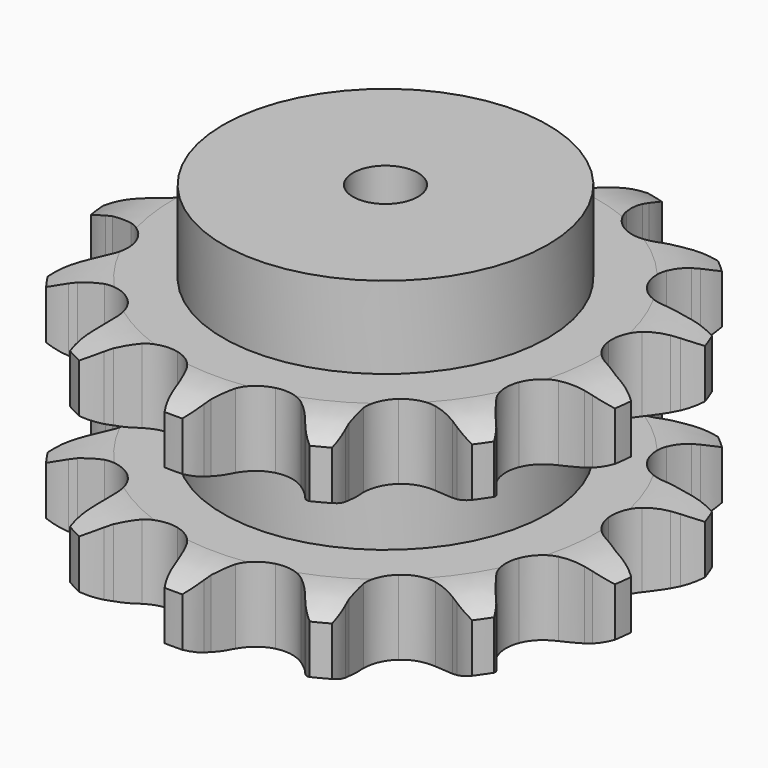
from build123d import *

# Parameters (mm, degrees)
PAD_DEPTH         = 88.4
SKETCH001_R       = 62.5
PAD001_DEPTH      = 120
SKETCH002_R       = 12.5
POCKET_DEPTH      = 0.001
POCKET_DEPTH_BACK = 120.001


with BuildPart() as part:
    # Sprocket → Pad (new body)
    with BuildSketch(Plane.XY):
        with BuildLine():
            ThreePointArc((-25.501981, 103.465603), (-20.4755, 99.243522), (-16.810526, 93.797474))
            Line((-16.810526, 93.797474), (-15.545747, 91.195433))
            ThreePointArc((-15.545747, 91.195433), (-13.413707, 87.403343), (-10.844837, 83.892438))
            ThreePointArc((-10.844837, 83.892438), (-5.992389, 80.130059), (0, 78.791023))
            ThreePointArc((0, 78.791023), (5.992389, 80.130059), (10.844837, 83.892438))
            ThreePointArc((10.844837, 83.892438), (13.413707, 87.403343), (15.545747, 91.195433))
            Line((15.545747, 91.195433), (16.810526, 93.797474))
            ThreePointArc((16.810526, 93.797474), (20.4755, 99.243522), (25.501981, 103.465603))
            ThreePointArc((25.501981, 103.465603), (27.990609, 97.391214), (28.704878, 90.865779))
            Line((28.704878, 90.865779), (28.615555, 87.974015))
            ThreePointArc((28.615555, 87.974015), (28.741111, 83.625477), (29.384134, 79.322912))
            ThreePointArc((29.384134, 79.322912), (31.932298, 73.736445), (36.616014, 69.765986))
            ThreePointArc((36.616014, 69.765986), (42.544292, 68.166841), (48.589386, 69.243218))
            Line((48.589386, 69.243218), (56.145707, 73.525077))
            ThreePointArc((56.145707, 73.525077), (57.29323, 74.406318), (58.474841, 75.241297))
            ThreePointArc((58.474841, 75.241297), (64.250919, 78.360335), (70.663746, 79.76288))
            ThreePointArc((70.663746, 79.76288), (70.044407, 73.227752), (67.64434, 67.11783))
            Line((67.64434, 67.11783), (66.221379, 64.59881))
            ThreePointArc((66.221379, 64.59881), (64.311687, 60.690022), (62.881553, 56.581462))
            ThreePointArc((62.881553, 56.581462), (62.54168, 50.450701), (64.843741, 44.758403))
            ThreePointArc((64.843741, 44.758403), (69.34981, 40.587422), (75.202692, 38.731211))
            Line((75.202692, 38.731211), (83.883361, 39.011011))
            ThreePointArc((83.883361, 39.011011), (85.308976, 39.258031), (86.743275, 39.448247))
            ThreePointArc((86.743275, 39.448247), (93.307227, 39.525739), (99.637298, 37.787443))
            ThreePointArc((99.637298, 37.787443), (96.051876, 32.288696), (91.0873, 27.993994))
            Line((91.0873, 27.993994), (88.656683, 26.424796))
            ThreePointArc((88.656683, 26.424796), (85.14923, 23.851215), (81.973567, 20.877882))
            ThreePointArc((81.973567, 20.877882), (78.823517, 15.607309), (78.216548, 9.497208))
            ThreePointArc((78.216548, 9.497208), (80.268123, 3.709913), (84.587968, -0.65365))
            Line((84.587968, -0.65365), (92.404348, -4.440007))
            ThreePointArc((92.404348, -4.440007), (93.781463, -4.883798), (95.13987, -5.381922))
            ThreePointArc((95.13987, -5.381922), (100.987973, -8.363726), (105.785146, -12.844642))
            ThreePointArc((105.785146, -12.844642), (100.055017, -16.047312), (93.663256, -17.542928))
            Line((93.663256, -17.542928), (90.781809, -17.80282))
            ThreePointArc((90.781809, -17.80282), (86.480111, -18.451618), (82.286424, -19.60857))
            ThreePointArc((82.286424, -19.60857), (77.047837, -22.811529), (73.670886, -27.939682))
            ThreePointArc((73.670886, -27.939682), (72.797976, -34.017492), (74.59516, -39.888767))
            Line((74.59516, -39.888767), (79.756613, -46.873873))
            ThreePointArc((79.756613, -46.873873), (80.769748, -47.906807), (81.741067, -48.979157))
            ThreePointArc((81.741067, -48.979157), (85.533592, -54.337163), (87.698892, -60.534175))
            ThreePointArc((87.698892, -60.534175), (81.13676, -60.707074), (74.782089, -59.060977))
            Line((74.782089, -59.060977), (72.109917, -57.952024))
            ThreePointArc((72.109917, -57.952024), (67.999441, -56.527408), (63.748453, -55.602934))
            ThreePointArc((63.748453, -55.602934), (57.621425, -56.004521), (52.248113, -58.975928))
            ThreePointArc((52.248113, -58.975928), (48.65069, -63.951899), (47.513499, -69.985849))
            Line((47.513499, -69.985849), (48.837599, -78.569499))
            ThreePointArc((48.837599, -78.569499), (49.254656, -79.954945), (49.616371, -81.355858))
            ThreePointArc((49.616371, -81.355858), (50.484496, -87.862611), (49.521879, -94.356057))
            ThreePointArc((49.521879, -94.356057), (43.631049, -91.459577), (38.769247, -87.048867))
            Line((38.769247, -87.048867), (36.918512, -84.825119))
            ThreePointArc((36.918512, -84.825119), (33.940918, -81.65345), (30.60648, -78.859337))
            ThreePointArc((30.60648, -78.859337), (24.99464, -76.367552), (18.855926, -76.501499))
            ThreePointArc((18.855926, -76.501499), (13.358117, -79.235697), (9.547069, -84.050015))
            Line((9.547069, -84.050015), (6.730479, -92.2658))
            ThreePointArc((6.730479, -92.2658), (6.455917, -93.686367), (6.125162, -95.094912))
            ThreePointArc((6.125162, -95.094912), (3.87001, -101.259793), (0, -106.562104))
            ThreePointArc((0, -106.562104), (-3.87001, -101.259793), (-6.125162, -95.094912))
            Line((-6.125162, -95.094912), (-6.730479, -92.2658))
            ThreePointArc((-6.730479, -92.2658), (-7.89306, -88.073671), (-9.547069, -84.050015))
            ThreePointArc((-9.547069, -84.050015), (-13.358117, -79.235697), (-18.855926, -76.501499))
            ThreePointArc((-18.855926, -76.501499), (-24.99464, -76.367552), (-30.60648, -78.859337))
            Line((-30.60648, -78.859337), (-36.918512, -84.825119))
            ThreePointArc((-36.918512, -84.825119), (-37.821796, -85.955373), (-38.769247, -87.048867))
            ThreePointArc((-38.769247, -87.048867), (-43.631049, -91.459577), (-49.521879, -94.356057))
            ThreePointArc((-49.521879, -94.356057), (-50.484496, -87.862611), (-49.616371, -81.355858))
            Line((-49.616371, -81.355858), (-48.837599, -78.569499))
            ThreePointArc((-48.837599, -78.569499), (-47.918833, -74.317274), (-47.513499, -69.985849))
            ThreePointArc((-47.513499, -69.985849), (-48.65069, -63.951899), (-52.248113, -58.975928))
            ThreePointArc((-52.248113, -58.975928), (-57.621425, -56.004521), (-63.748453, -55.602934))
            Line((-63.748453, -55.602934), (-72.109917, -57.952024))
            ThreePointArc((-72.109917, -57.952024), (-73.43499, -58.533038), (-74.782089, -59.060977))
            ThreePointArc((-74.782089, -59.060977), (-81.13676, -60.707074), (-87.698892, -60.534175))
            ThreePointArc((-87.698892, -60.534175), (-85.533592, -54.337163), (-81.741067, -48.979157))
            Line((-81.741067, -48.979157), (-79.756613, -46.873873))
            ThreePointArc((-79.756613, -46.873873), (-76.966979, -43.535686), (-74.59516, -39.888767))
            ThreePointArc((-74.59516, -39.888767), (-72.797976, -34.017492), (-73.670886, -27.939682))
            ThreePointArc((-73.670886, -27.939682), (-77.047837, -22.811529), (-82.286424, -19.60857))
            Line((-82.286424, -19.60857), (-90.781809, -17.80282))
            ThreePointArc((-90.781809, -17.80282), (-92.225114, -17.701489), (-93.663256, -17.542928))
            ThreePointArc((-93.663256, -17.542928), (-100.055017, -16.047312), (-105.785146, -12.844642))
            ThreePointArc((-105.785146, -12.844642), (-100.987973, -8.363726), (-95.13987, -5.381922))
            Line((-95.13987, -5.381922), (-92.404348, -4.440007))
            ThreePointArc((-92.404348, -4.440007), (-88.382918, -2.780597), (-84.587968, -0.65365))
            ThreePointArc((-84.587968, -0.65365), (-80.268123, 3.709913), (-78.216548, 9.497208))
            ThreePointArc((-78.216548, 9.497208), (-78.823517, 15.607309), (-81.973567, 20.877882))
            Line((-81.973567, 20.877882), (-88.656683, 26.424796))
            ThreePointArc((-88.656683, 26.424796), (-89.887575, 27.185257), (-91.0873, 27.993994))
            ThreePointArc((-91.0873, 27.993994), (-96.051876, 32.288696), (-99.637298, 37.787443))
            ThreePointArc((-99.637298, 37.787443), (-93.307227, 39.525739), (-86.743275, 39.448247))
            Line((-86.743275, 39.448247), (-83.883361, 39.011011))
            ThreePointArc((-83.883361, 39.011011), (-79.551395, 38.611493), (-75.202692, 38.731211))
            ThreePointArc((-75.202692, 38.731211), (-69.34981, 40.587422), (-64.843741, 44.758403))
            ThreePointArc((-64.843741, 44.758403), (-62.54168, 50.450701), (-62.881553, 56.581462))
            Line((-62.881553, 56.581462), (-66.221379, 64.59881))
            ThreePointArc((-66.221379, 64.59881), (-66.957876, 65.844188), (-67.64434, 67.11783))
            ThreePointArc((-67.64434, 67.11783), (-70.044407, 73.227752), (-70.663746, 79.76288))
            ThreePointArc((-70.663746, 79.76288), (-64.250919, 78.360335), (-58.474841, 75.241297))
            Line((-58.474841, 75.241297), (-56.145707, 73.525077))
            ThreePointArc((-56.145707, 73.525077), (-52.495606, 71.158156), (-48.589386, 69.243218))
            ThreePointArc((-48.589386, 69.243218), (-42.544292, 68.166841), (-36.616014, 69.765986))
            ThreePointArc((-36.616014, 69.765986), (-31.932298, 73.736445), (-29.384134, 79.322912))
            Line((-29.384134, 79.322912), (-28.615555, 87.974015))
            ThreePointArc((-28.615555, 87.974015), (-28.688935, 89.41901), (-28.704878, 90.865779))
            ThreePointArc((-28.704878, 90.865779), (-27.990609, 97.391214), (-25.501981, 103.465603))
        make_face()
    extrude(amount=PAD_DEPTH)

    # Sketch → Groove (revolve, cut)
    with BuildSketch(Plane.XZ):
        with BuildLine():
            ThreePointArc((81.728451, 0), (92.21654, 1.268279), (102.1, 5))
            Line((102.1, 5), (102.1, 23.8))
            ThreePointArc((102.1, 23.8), (92.21654, 27.531721), (81.728451, 28.8))
            Line((62.5, 28.8), (81.728451, 28.8))
            Line((62.5, 59.6), (62.5, 28.8))
            Line((81.728451, 59.6), (62.5, 59.6))
            ThreePointArc((81.728451, 59.6), (92.21654, 60.868279), (102.1, 64.6))
            Line((102.1, 64.6), (102.1, 83.4))
            ThreePointArc((102.1, 83.4), (92.21654, 87.131721), (81.728451, 88.4))
            Line((81.728451, 88.4), (112.1, 88.4))
            Line((112.1, 88.4), (112.1, 0))
            Line((81.728451, 0), (112.1, 0))
        make_face()
    revolve(axis=Axis((0, 0, 0), (0, 0, 1)), mode=Mode.SUBTRACT)

    # Sketch001 → Pad001 (join)
    with BuildSketch(Plane.XY):
        Circle(SKETCH001_R)
    extrude(amount=PAD001_DEPTH)

    # Sketch002 → Pocket (cut, two sides)
    with BuildSketch(Plane.XY) as pocket_sk:
        Circle(SKETCH002_R)
    extrude(amount=-POCKET_DEPTH, mode=Mode.SUBTRACT)
    extrude(pocket_sk.sketch, amount=POCKET_DEPTH_BACK, mode=Mode.SUBTRACT)


solid = part.part
